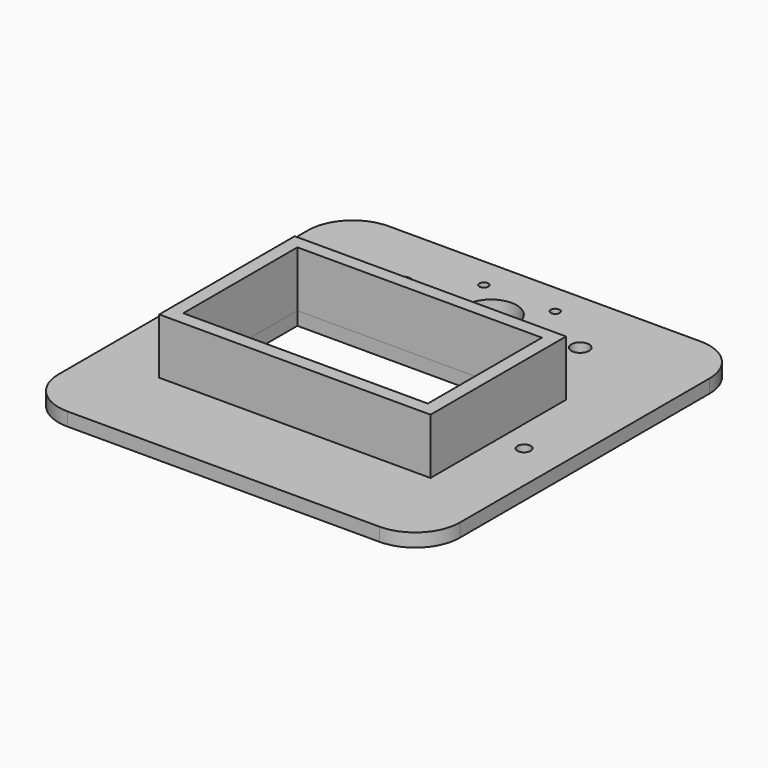
from build123d import *

# Parameters (mm, degrees)
F0_R     = 3
F0_W     = 109.704602
F0_H     = 63.983593
F0_R_2   = 2
F0_R_3   = 4
F0_R_4   = 11.5
F1_DEPTH = 6
F2_W     = 121.704602
F2_H     = 75.983593
F2_W_2   = 109.704602
F2_H_2   = 63.983593
F3_DEPTH = 25


with BuildPart() as f1:
    # F0 (on Top) → F1 (new body)
    with BuildSketch(Plane.XY):
        with BuildLine():
            Line((70, 70), (-70, 70))
            ThreePointArc((-70, 70), (-84.142136, 64.142136), (-90, 50))
            Line((-90, 50), (-90, -90))
            ThreePointArc((-90, -90), (-84.142136, -104.142136), (-70, -110))
            Line((-70, -110), (70, -110))
            ThreePointArc((70, -110), (84.142136, -104.142136), (90, -90))
            Line((90, -90), (90, 50))
            ThreePointArc((90, 50), (84.142136, 64.142136), (70, 70))
        make_face()
        with Locations((-73.088898, -31.991797)):
            Circle(F0_R, mode=Mode.SUBTRACT)
        with Locations((0, -31.991796)):
            Rectangle(F0_W, F0_H, mode=Mode.SUBTRACT)
        with Locations((72.426151, -31.991797)):
            Circle(F0_R, mode=Mode.SUBTRACT)
        with Locations((-16, 24)):
            Circle(F0_R_2, mode=Mode.SUBTRACT)
        with Locations((-40, 40)):
            Circle(F0_R_3, mode=Mode.SUBTRACT)
        with Locations((-16, 56)):
            Circle(F0_R_2, mode=Mode.SUBTRACT)
        with Locations((16, 24)):
            Circle(F0_R_2, mode=Mode.SUBTRACT)
        with Locations((0, 40)):
            Circle(F0_R_4, mode=Mode.SUBTRACT)
        with Locations((40, 40)):
            Circle(F0_R_3, mode=Mode.SUBTRACT)
        with Locations((16, 56)):
            Circle(F0_R_2, mode=Mode.SUBTRACT)
    extrude(amount=F1_DEPTH)


with BuildPart() as f3:
    # F2 (on face) → F3 (new body)
    with BuildSketch(Plane.XY.offset(6)):
        with Locations((0, -31.991796)):
            Rectangle(F2_W, F2_H)
        with Locations((0, -31.991796)):
            Rectangle(F2_W_2, F2_H_2, mode=Mode.SUBTRACT)
    extrude(amount=F3_DEPTH)


solid = Compound([f1.part, f3.part])
